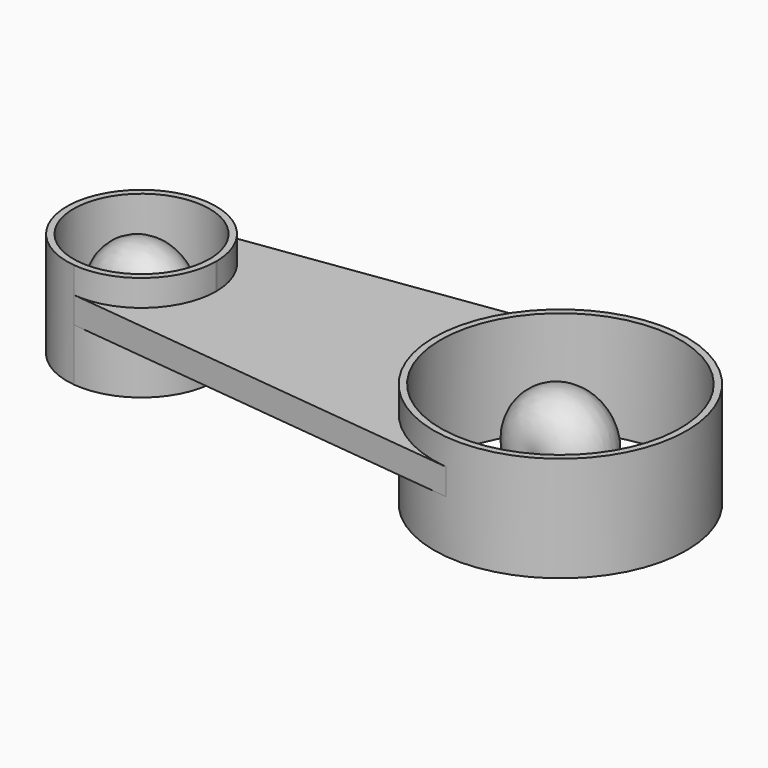
from build123d import *

# Parameters (mm, degrees)
F1_DEPTH = 25.4
F2_DEPTH = 50.8


with BuildPart() as f1:
    # F0 (on Top) → F1 (new body)
    with BuildSketch(Plane.XY):
        with BuildLine():
            ThreePointArc((-140.4638838317, 246.1935853178), (-83.577166581, 229.5852579018), (-58.4072845736, 175.9344221315))
            Line((-58.4072845736, 175.9344221315), (147.3208734738, 178.9421364748))
            ThreePointArc((147.3208734738, 178.9421364748), (176.6367741069, 260.0735602829), (252.2863975153, 301.5327503046))
            Line((252.2863975153, 301.5327503046), (-140.4638838317, 246.1935853178))
        make_face()
        with BuildLine():
            Line((147.3208734738, 178.9421364748), (-58.4072845736, 175.9344221315))
            ThreePointArc((-58.4072845736, 175.9344221315), (-58.4015132373, 175.4080585769), (-58.3995894242, 174.8816668987))
            ThreePointArc((-58.3995894242, 174.8816668987), (-82.3889715856, 121.2182349833), (-138.3748962513, 103.3064896536))
            Line((-138.3748962513, 103.3064896536), (255.8252826762, 59.4724205627))
            ThreePointArc((255.8252826762, 59.4724205627), (178.9959960123, 98.7023921379), (147.3208734738, 178.9421364748))
        make_face()
    extrude(amount=F1_DEPTH)

    # F0 (on Top) → F2 (join, symmetric)
    with BuildSketch(Plane.XY):
        with BuildLine():
            ThreePointArc((-58.3995894242, 174.8816668987), (-58.4015132373, 175.4080585769), (-58.4072845736, 175.9344221315))
            ThreePointArc((-58.4072845736, 175.9344221315), (-83.577166581, 229.5852579018), (-140.4638838317, 246.1935853178))
            ThreePointArc((-140.4638838317, 246.1935853178), (-202.4245483121, 173.828911666), (-138.3748962513, 103.3064896536))
            ThreePointArc((-138.3748962513, 103.3064896536), (-82.3889715856, 121.2182349833), (-58.3995894242, 174.8816668987))
        make_face()
        with BuildLine():
            ThreePointArc((-64.7566060581, 175.8415960182), (-64.7513436061, 175.3616442804), (-64.7495894242, 174.8816668987))
            ThreePointArc((-64.7495894242, 174.8816668987), (-196.0804892796, 174.4016895171), (-64.7566060581, 175.8415960182))
        make_face(mode=Mode.SUBTRACT)
        with BuildLine():
            ThreePointArc((252.2863975153, 301.5327503046), (176.6367741069, 260.0735602829), (147.3208734738, 178.9421364748))
            ThreePointArc((147.3208734738, 178.9421364748), (178.9959960123, 98.7023921379), (255.8252826762, 59.4724205627))
            ThreePointArc((255.8252826762, 59.4724205627), (350.6691964844, 89.8161192753), (391.3088198829, 180.7255744934))
            ThreePointArc((391.3088198829, 180.7255744934), (349.3315624684, 272.8146721766), (252.2863975153, 301.5327503046))
        make_face()
        with BuildLine():
            ThreePointArc((384.9588198829, 180.7255744934), (270.153657163, 65.0781726763), (153.6701949582, 179.034962588))
            ThreePointArc((153.6701949582, 179.034962588), (268.4630000941, 296.3729763105), (384.9588198829, 180.7255744934))
        make_face(mode=Mode.SUBTRACT)
    extrude(amount=F2_DEPTH, both=True)


with BuildPart() as f4:
    # F3 (on face) → F4 (revolve)
    with BuildSketch(Plane.XY):
        with BuildLine():
            ThreePointArc((269.774337757, 148.850473107), (317.3453671489, 181.4278686817), (268.8423195001, 212.6006758799))
            Line((268.8423195001, 212.6006758799), (269.3083286285, 180.7255744934))
            Line((269.3083286285, 180.7255744934), (269.774337757, 148.850473107))
        make_face()
    revolve(axis=Axis((269.3083286285, 180.7255744934, 0), (0.0146182856, -0.9998931472, 0)))


with BuildPart() as f6:
    # F5 (on face) → F6 (revolve)
    with BuildSketch(Plane.XY):
        with BuildLine():
            Line((-130.4159164429, 174.8816668987), (-130.4159164429, 203.0395782527))
            ThreePointArc((-130.4159164429, 203.0395782527), (-176.4561565168, 174.8816668987), (-130.4159164429, 146.7237555447))
            Line((-130.4159164429, 146.7237555447), (-130.4159164429, 174.8816668987))
        make_face()
    revolve(axis=Axis((-130.4159164429, 174.8816668987, 0), (0, -1, 0)))


solid = Compound([f1.part, f4.part, f6.part])
